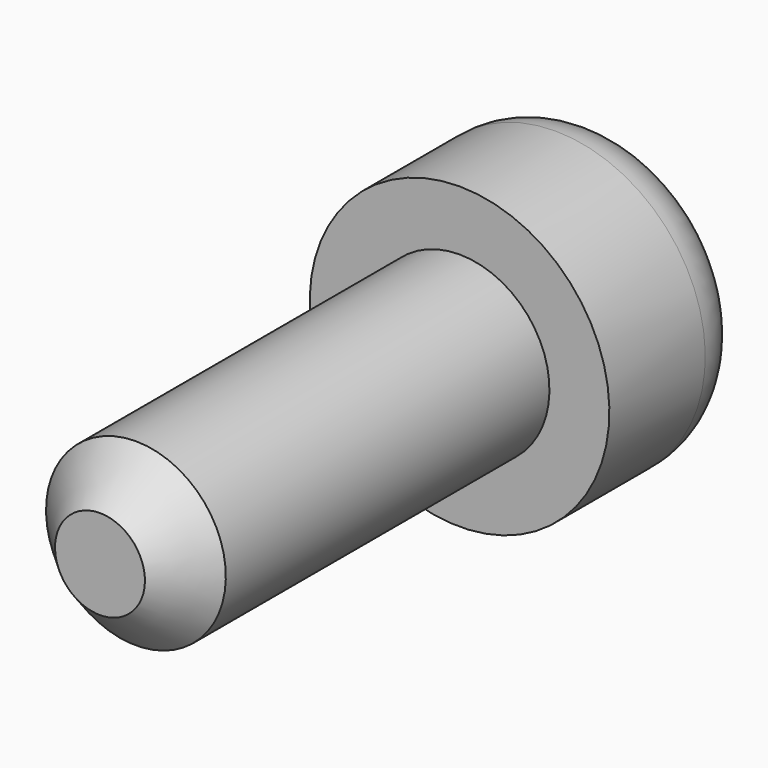
from build123d import *

# Parameters (mm, degrees)
F2_SIZE = 1.5
F3_R    = 2


with BuildPart() as f1:
    # F0 (on Right) → F1 (revolve)
    with BuildSketch(Plane.YZ):
        Polygon((-3.958115, 0), (17.041885, 0), (17.041885, 5), (11.041885, 5), (11.041885, 3), (-3.958115, 3), align=None)
    revolve(axis=Axis((0, 6.541885, 0), (0, 1, 0)))

    # F2
    f2_edges = [f1.edges().sort_by_distance(p)[0] for p in [
        (0, -3.958115, -3),
    ]]
    chamfer(f2_edges, length=F2_SIZE)

    # F3
    f3_edges = [f1.edges().sort_by_distance(p)[0] for p in [
        (0, 17.041885, -5),
    ]]
    fillet(f3_edges, radius=F3_R)


solid = f1.part
